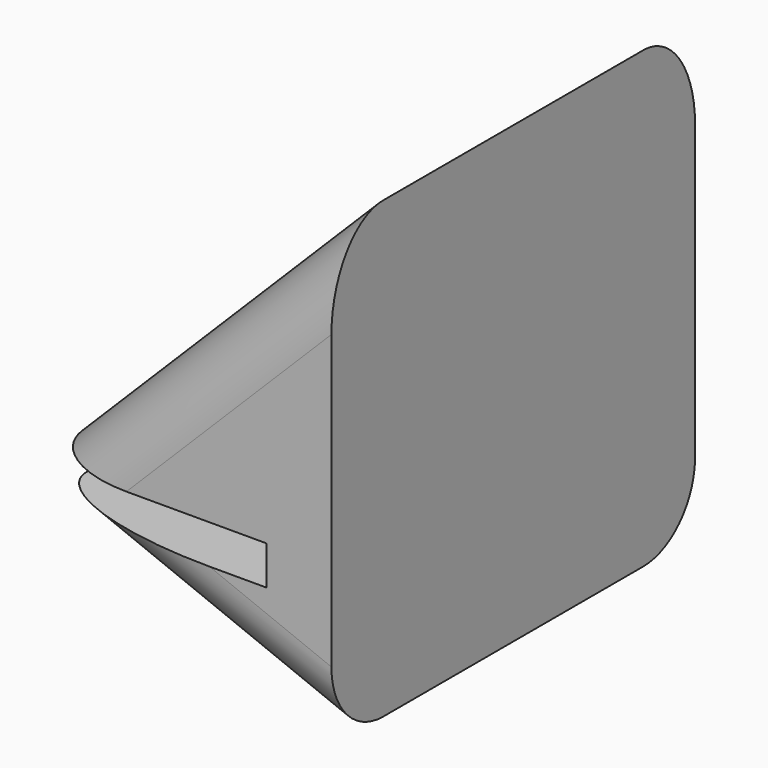
from build123d import *

# Parameters (mm, degrees)
F1_DEPTH = 17.5
F2_R     = 5
F3_W     = 40
F3_H     = 3
F4_DEPTH = 20


with BuildPart() as f1:
    # F0 (on Front) → F1 (new body, symmetric)
    with BuildSketch(Plane.XZ):
        Polygon((-25, 10), (0, 0), (0, 35), align=None)
    extrude(amount=F1_DEPTH, both=True)

    # F2
    f2_edges = [f1.edges().sort_by_distance(p)[0] for p in [
        (-12.5, -17.5, 22.5),
        (-12.5, -17.5, 5),
        (-12.5, 17.5, 22.5),
        (-12.5, 17.5, 5),
    ]]
    fillet(f2_edges, radius=F2_R)

    # F3 (on Front) → F4 (cut, symmetric)
    with BuildSketch(Plane.XZ):
        with Locations((-25, 10.642857)):
            Rectangle(F3_W, F3_H)
    extrude(amount=F4_DEPTH, both=True, mode=Mode.SUBTRACT)


solid = f1.part
